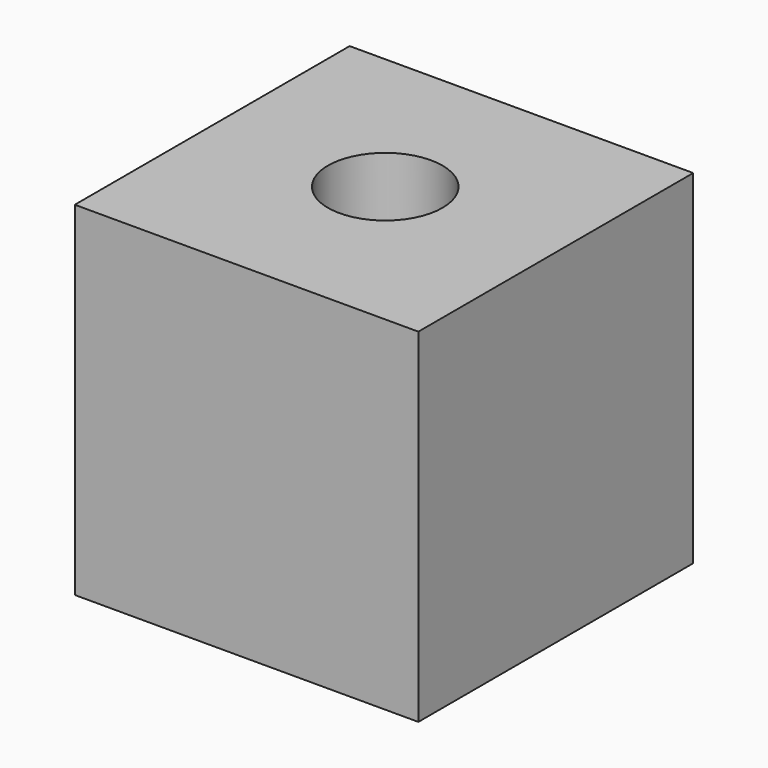
from build123d import *

# Parameters (mm, degrees)
F0_W     = 152.4
F0_H     = 152.4
F1_DEPTH = 152.4
F2_R     = 25.4
F3_DEPTH = 152.401


with BuildPart() as f1:
    # F0 (on Right) → F1 (new body)
    with BuildSketch(Plane.YZ):
        with Locations((76.2, -76.2)):
            Rectangle(F0_W, F0_H)
    extrude(amount=F1_DEPTH)

    # F2 (on face) → F3 (cut, through all)
    with BuildSketch(Plane.XY):
        with Locations((75.516477, 77.730492)):
            Circle(F2_R)
    extrude(amount=-F3_DEPTH, mode=Mode.SUBTRACT)


solid = f1.part
